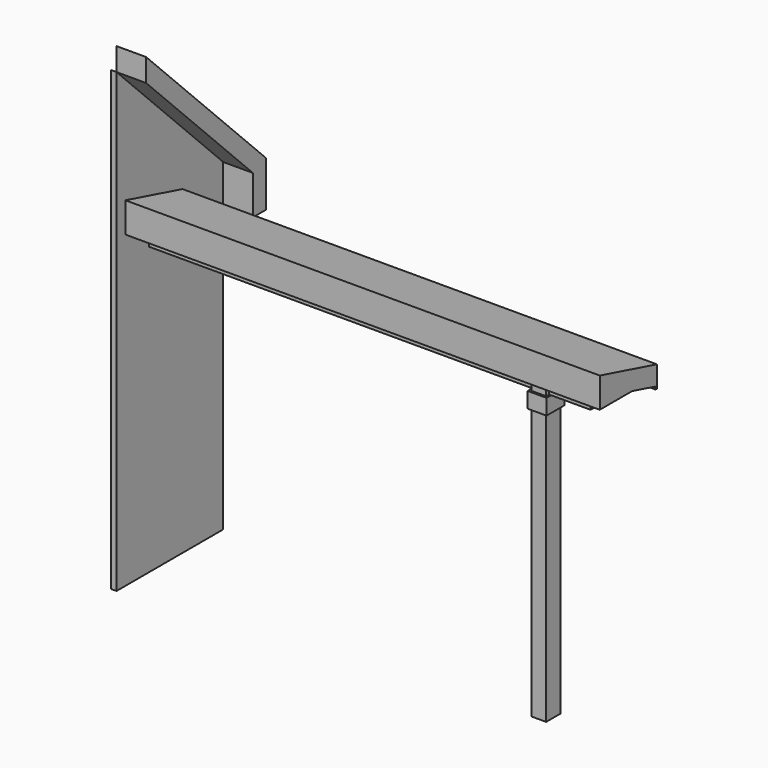
from build123d import *

# Parameters (mm, degrees)
F1_DEPTH  = 4162.425
F2_W      = 139.7
F2_H      = 171.45
F3_DEPTH  = 2914.65
F5_DEPTH  = 4470.4
F6_W      = 177.8
F6_H      = 209.55
F7_DEPTH  = 147.32
F9_DEPTH  = 50.8
F11_DEPTH = 279.4


with BuildPart() as f1:
    # F0 (on Right) → F1 (new body)
    with BuildSketch(Plane.YZ):
        Polygon((0, 2914.65), (0, 2701.925), (92.075, 2701.925), (92.075, 2889.25), (104.775, 2889.25), (104.775, 2914.65), align=None)
    extrude(amount=F1_DEPTH)


with BuildPart() as f3:
    # F2 (on face) → F3 (new body, through all)
    with BuildSketch(Plane.XY.offset(2914.65)):
        with Locations((3702.05, 50.8)):
            Rectangle(F2_W, F2_H)
    extrude(amount=-F3_DEPTH)


with BuildPart() as f5:
    # F4 (on Right) → F5 (new body)
    with BuildSketch(Plane.YZ):
        Polygon((-276.225, 2914.65), (104.775, 2914.65), (380.788305, 2840.692458), (380.788305, 2815.292458), (396.663305, 2815.292458), (396.663305, 3018.492458), (-276.225, 3198.792336), align=None)
    extrude(amount=F5_DEPTH)


with BuildPart() as f7:
    # F6 (on face) → F7 (new body)
    with BuildSketch(Plane(origin=(0, 0, 2701.925), x_dir=(1, 0, 0), z_dir=(0, 0, -1))):
        with Locations((3702.05, -50.8)):
            Rectangle(F6_W, F6_H)
    extrude(amount=F7_DEPTH)


with BuildPart() as f9:
    # F8 (on Right) → F9 (new body)
    with BuildSketch(Plane.YZ):
        Polygon((-381, 0), (876.3, 0), (876.3, 3048), (-381, 4305.3), align=None)
    extrude(amount=-F9_DEPTH)


with BuildPart() as f11:
    # F10 (on face) → F11 (new body)
    with BuildSketch(Plane.YZ):
        Polygon((876.3, 3048), (876.3, 2679.7), (1028.7, 2679.7), (1028.7, 3111.126147), (-381, 4520.826147), (-381, 4305.3), align=None)
    extrude(amount=F11_DEPTH)


solid = Compound([f1.part, f3.part, f5.part, f7.part, f9.part, f11.part])
